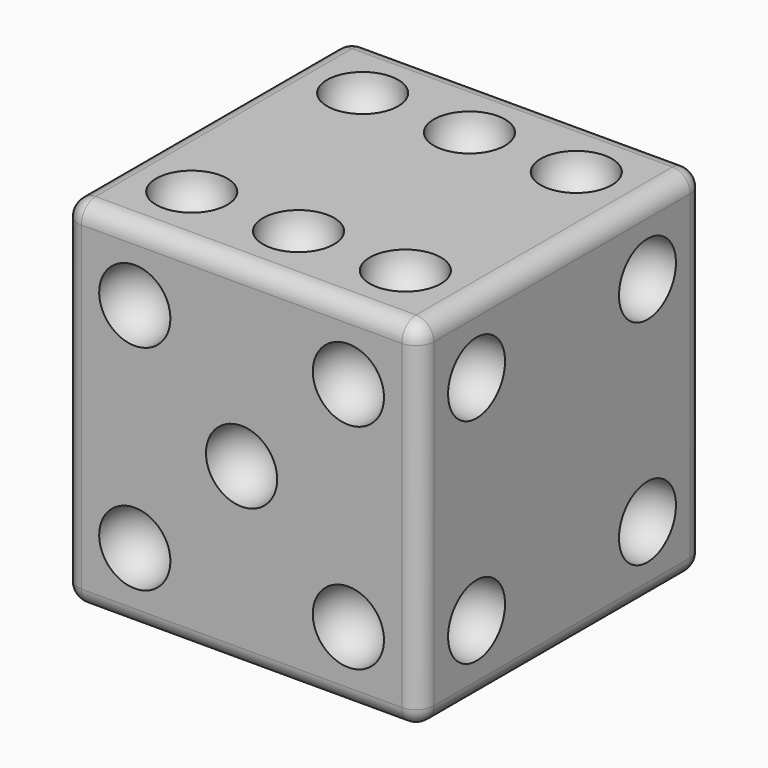
from build123d import *

# Parameters (mm, degrees)
ARRAY_X_COUNT            = 3
ARRAY_X_PITCH            = 6
ARRAY_Y_COUNT            = 2
ARRAY_Y_PITCH            = 12
ARRAY001_X_COUNT         = 2
ARRAY001_X_PITCH         = 12
ARRAY001_Y_COUNT         = 2
ARRAY001_Y_PITCH         = 12
FUSION_PITCH_ANGLE       = -90
FUSION_PLACEMENT_ANGLE   = -90
ARRAY002_X_COUNT         = 2
ARRAY002_X_PITCH         = 12
ARRAY002_Y_COUNT         = 2
ARRAY002_Y_PITCH         = 12
ARRAY002_PLACEMENT_ANGLE = 90
BOX_W                    = 20
BOX_H                    = 20
BOX_DEPTH                = 20
FILLET_R                 = 1


with BuildPart() as array:
    # Sphere → Sphere (revolve)
    with BuildSketch(Plane.XZ):
        with BuildLine():
            ThreePointArc((0, -2), (2, 0), (0, 2))
            Line((0, 2), (0, -2))
        make_face()
    revolve(axis=Axis((0, 0, 0), (0, 0, 1)))

    # Array X: Array ×3


with BuildPart() as array_1:
    add(array.part)
    with Locations(*[(i * ARRAY_X_PITCH, 0, 0) for i in range(1, ARRAY_X_COUNT)]):
        add(array.part)

    # Array Y: Array ×2


with BuildPart() as array_2:
    add(array_1.part)
    with Locations(*[(0, i * ARRAY_Y_PITCH, 0) for i in range(1, ARRAY_Y_COUNT)]):
        add(array_1.part)


with BuildPart() as array_3:
    # Array placement: moved
    add(array_2.part.moved(Location((4, 4, 20))))


with BuildPart() as esfera001:
    # Sphere001 → Sphere001 (revolve)
    with BuildSketch(Plane.XZ):
        with BuildLine():
            ThreePointArc((0, -2), (2, 0), (0, 2))
            Line((0, 2), (0, -2))
        make_face()
    revolve(axis=Axis((0, 0, 0), (0, 0, 1)))


with BuildPart() as array001:
    # Array001 base: copy of Esfera001
    add(esfera001.part)

    # Array001 X: Array001 ×2


with BuildPart() as array001_1:
    add(array001.part)
    with Locations(*[(i * ARRAY001_X_PITCH, 0, 0) for i in range(1, ARRAY001_X_COUNT)]):
        add(array001.part)

    # Array001 Y: Array001 ×2


with BuildPart() as array001_2:
    add(array001_1.part)
    with Locations(*[(0, i * ARRAY001_Y_PITCH, 0) for i in range(1, ARRAY001_Y_COUNT)]):
        add(array001_1.part)


with BuildPart() as fusion:
    # Sphere002 → Sphere002 (revolve)
    with BuildSketch(Plane(origin=(6, 6, 0), x_dir=(1, 0, 0), z_dir=(0, -1, 0))):
        with BuildLine():
            ThreePointArc((0, -2), (2, 0), (0, 2))
            Line((0, 2), (0, -2))
        make_face()
    revolve(axis=Axis((6, 6, 0), (0, 0, 1)))

    # Fusion: union Array001
    add(array001_2.part)


with BuildPart() as fusion_1:
    # Fusion pitch: moved
    add(fusion.part.rotate(Axis((0, 0, 0), (0, 1, 0)), FUSION_PITCH_ANGLE))


with BuildPart() as fusion_2:
    # Fusion placement: moved
    add(fusion_1.part.moved(Location((4, 0, 4))).rotate(Axis((4, 0, 4), (0, 0, 1)), FUSION_PLACEMENT_ANGLE))


with BuildPart() as array002:
    # Array002 base: copy of Esfera001
    add(esfera001.part)

    # Array002 X: Array002 ×2


with BuildPart() as array002_1:
    add(array002.part)
    with Locations(*[(i * ARRAY002_X_PITCH, 0, 0) for i in range(1, ARRAY002_X_COUNT)]):
        add(array002.part)

    # Array002 Y: Array002 ×2


with BuildPart() as array002_2:
    add(array002_1.part)
    with Locations(*[(0, i * ARRAY002_Y_PITCH, 0) for i in range(1, ARRAY002_Y_COUNT)]):
        add(array002_1.part)


with BuildPart() as array002_3:
    # Array002 placement: moved
    add(array002_2.part.moved(Location((20, 4, 4))).rotate(Axis((20, 4, 4), (0, -1, 0)), ARRAY002_PLACEMENT_ANGLE))


with BuildPart() as cut002:
    # Box → Box (new body)
    with BuildSketch(Plane.XY):
        with Locations((10, 10)):
            Rectangle(BOX_W, BOX_H)
    extrude(amount=BOX_DEPTH)

    # Fillet
    fillet_edges = [cut002.edges().sort_by_distance(p)[0] for p in [
        (0, 0, 10),
        (0, 10, 20),
        (0, 20, 10),
        (0, 10, 0),
        (20, 0, 10),
        (20, 10, 20),
        (20, 20, 10),
        (20, 10, 0),
        (10, 0, 0),
        (10, 0, 20),
        (10, 20, 0),
        (10, 20, 20),
    ]]
    fillet(fillet_edges, radius=FILLET_R)

    # Cut: cut Array002
    add(array002_3.part, mode=Mode.SUBTRACT)

    # Cut001: cut Fusion
    add(fusion_2.part, mode=Mode.SUBTRACT)

    # Cut002: cut Array
    add(array_3.part, mode=Mode.SUBTRACT)


solid = cut002.part
